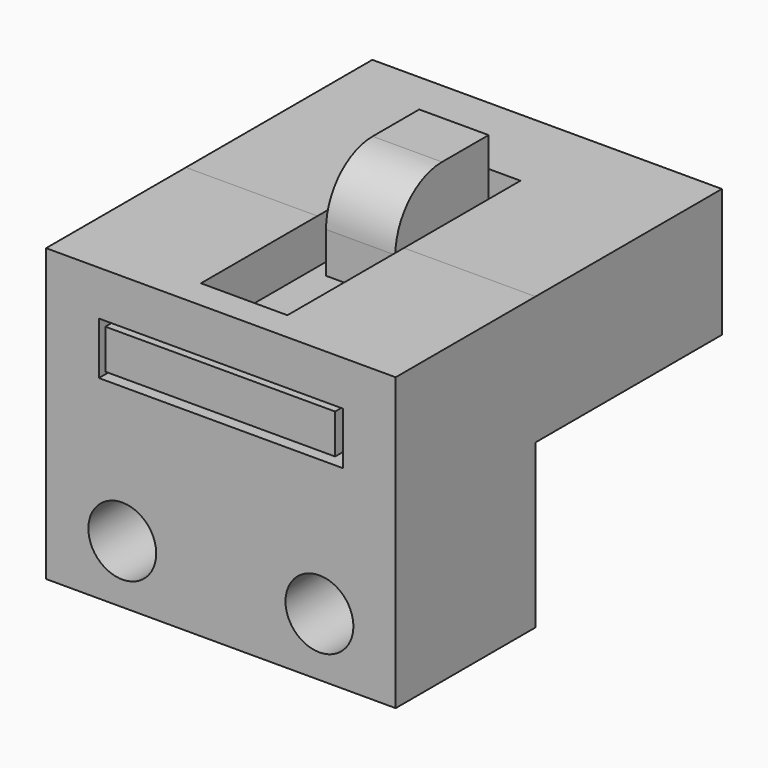
from build123d import *

# Parameters (mm, degrees)
SKETCH_W        = 30
SKETCH_H        = 15
PAD_DEPTH       = 25
SKETCH001_W     = 30
SKETCH001_H     = 11.021101
PAD001_DEPTH    = 20
POCKET_DEPTH    = 12.5
SKETCH005_W     = 20.9433
SKETCH005_H     = 4.5
POCKET001_DEPTH = 35.001
SKETCH006_R     = 2.911807
POCKET002_DEPTH = 15.001
SKETCH004_W     = 19.717758
SKETCH004_H     = 3.4
PAD003_DEPTH    = 20
PAD002_DEPTH    = 10
FILLET_R        = 5


with BuildPart() as pocket002:
    # Sketch → Pad (new body)
    with BuildSketch(Plane.XY):
        with Locations((0, 7.5)):
            Rectangle(SKETCH_W, SKETCH_H)
    extrude(amount=PAD_DEPTH)

    # Sketch001 → Pad001 (new body)
    with BuildSketch(Plane(origin=(0, 15, 0), x_dir=(-1, 0, 0), z_dir=(0, 1, 0))):
        with Locations((0, 19.489453)):
            Rectangle(SKETCH001_W, SKETCH001_H)
    extrude(amount=PAD001_DEPTH)

    # Sketch002 → Pocket (cut, symmetric)
    with BuildSketch(Plane(origin=(0, 15, 0), x_dir=(-1, 0, 0), z_dir=(0, 1, 0))):
        Polygon((-3.711225, 27.762222), (-3.711225, 21.159639), (-10.471647, 21.159639), (-10.471647, 16.659639), (10.471647, 16.659639), (10.471647, 21.159639), (3.711225, 21.159639), (3.711225, 27.762222), align=None)
    extrude(amount=POCKET_DEPTH, both=True, mode=Mode.SUBTRACT)

    # Sketch005 → Pocket001 (cut, through all)
    with BuildSketch(Plane(origin=(0, 35, 0), x_dir=(-1, 0, 0), z_dir=(0, 1, 0))):
        with Locations((0, 18.909641)):
            Rectangle(SKETCH005_W, SKETCH005_H)
    extrude(amount=-POCKET001_DEPTH, mode=Mode.SUBTRACT)

    # Sketch006 → Pocket002 (cut, through all)
    with BuildSketch(Plane(origin=(0, 15, 0), x_dir=(-1, 0, 0), z_dir=(0, 1, 0))):
        with Locations((8.458632, 5)):
            Circle(SKETCH006_R)
        with Locations((-8.458632, 5)):
            Circle(SKETCH006_R)
    extrude(amount=-POCKET002_DEPTH, mode=Mode.SUBTRACT)


with BuildPart() as pad003:
    # Sketch004 → Pad003 (new body)
    with BuildSketch(Plane.XZ.offset(-20)):
        with Locations((-0.057347, 19.021947)):
            Rectangle(SKETCH004_W, SKETCH004_H)
    extrude(amount=PAD003_DEPTH)


with BuildPart() as fillet_body:
    # Sketch003 → Pad002 (new body)
    with BuildSketch(Plane.XZ.offset(-15)):
        Polygon((-2.977273, 29.225012), (-2.977273, 20.667399), (-9.911308, 20.667399), (-9.911308, 17.267399), (9.911308, 17.267399), (9.911308, 20.667399), (2.977273, 20.667399), (2.977273, 29.225012), align=None)
    extrude(amount=-PAD002_DEPTH)

    # Fusion: union Pad003
    add(pad003.part)

    # Fusion001: union Pocket002
    add(pocket002.part)

    # Fillet
    fillet_edges = [fillet_body.edges().sort_by_distance(p)[0] for p in [
        (0, 15, 29.225012),
    ]]
    fillet(fillet_edges, radius=FILLET_R)


solid = fillet_body.part
